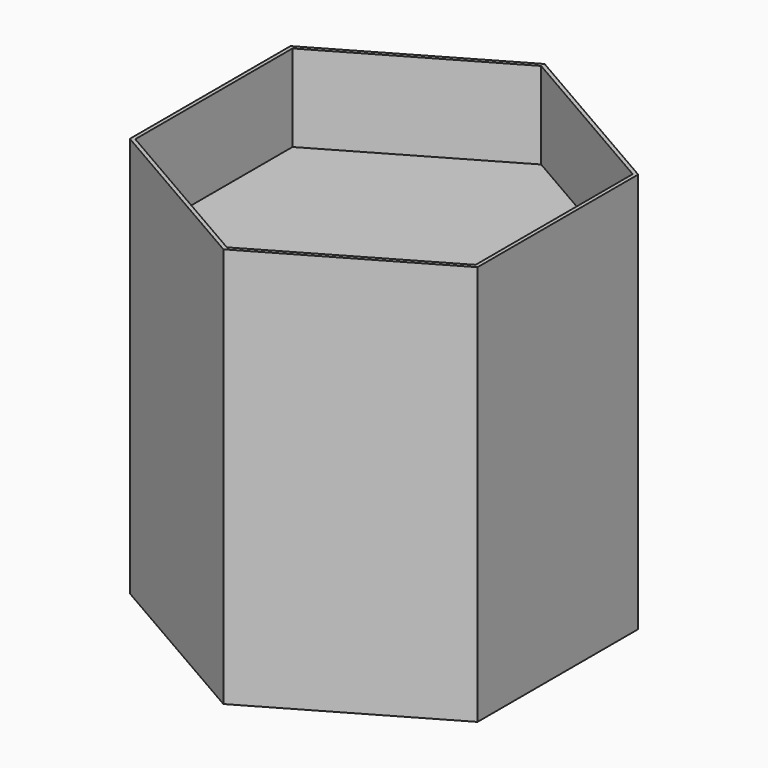
from build123d import *

# Parameters (mm, degrees)
F1_DEPTH = 3
F3_DEPTH = 320
F5_DEPTH = 250


with BuildPart() as f1:
    # F0 (on Top) → F1 (new body)
    with BuildSketch(Plane.XY):
        Polygon((140.265026, 80.982051), (0, 161.964102), (-140.265026, 80.982051), (-140.265026, -80.982051), (0, -161.964102), (140.265026, -80.982051), align=None)
        Polygon((-137.265026, 79.25), (0, 158.5), (137.265026, 79.25), (137.265026, -79.25), (0, -158.5), (-137.265026, -79.25), align=None, mode=Mode.SUBTRACT)
        Polygon((137.265026, 79.25), (0, 158.5), (-137.265026, 79.25), (-137.265026, -79.25), (0, -158.5), (137.265026, -79.25), align=None)
    extrude(amount=F1_DEPTH)

    # F2 (on face) → F3 (join)
    with BuildSketch(Plane.XY.offset(3)):
        Polygon((140.265026, 80.982051), (0, 161.964102), (-140.265026, 80.982051), (-140.265026, -80.982051), (0, -161.964102), (140.265026, -80.982051), align=None)
        Polygon((-137.265026, 79.25), (0, 158.5), (137.265026, 79.25), (137.265026, -79.25), (0, -158.5), (-137.265026, -79.25), align=None, mode=Mode.SUBTRACT)
    extrude(amount=F3_DEPTH)


with BuildPart() as f5:
    # F4 (on face) → F5 (new body)
    with BuildSketch(Plane.XY.offset(3)):
        Polygon((137.265026, 79.25), (0, 158.5), (-137.265026, 79.25), (-137.265026, -79.25), (0, -158.5), (137.265026, -79.25), align=None)
    extrude(amount=F5_DEPTH)


solid = Compound([f1.part, f5.part])
